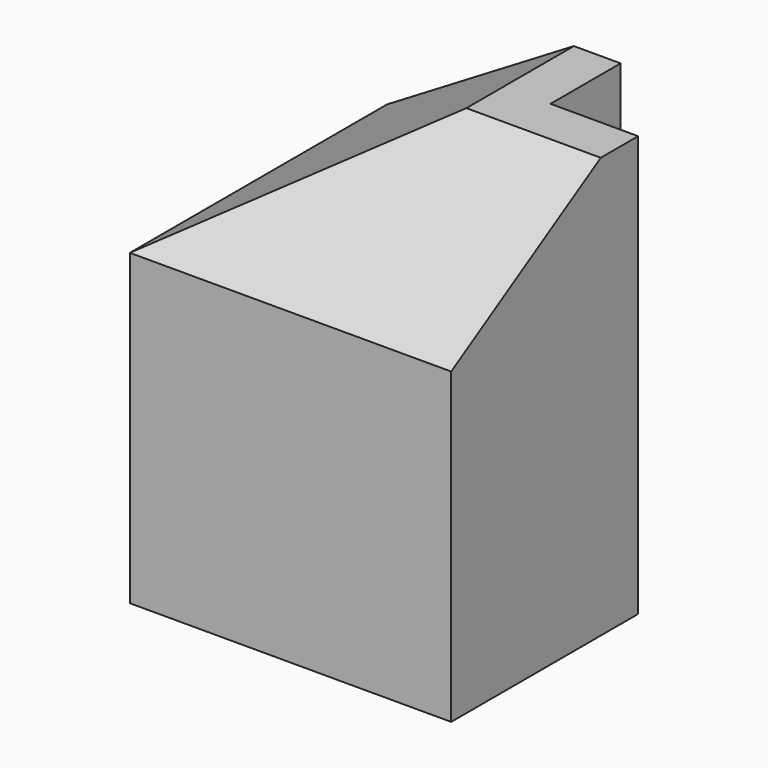
from build123d import *

# Parameters (mm, degrees)
PAD014_DEPTH    = 28.8
POCKET011_DEPTH = 24
POCKET012_DEPTH = 24
SKETCH112_W     = 2
SKETCH112_H     = 16
POCKET028_DEPTH = 30
PAD141_DEPTH    = 22
PAD142_DEPTH    = 24
POCKET056_DEPTH = 24
POCKET057_DEPTH = 23
SKETCH194_W     = 16
SKETCH194_H     = 2
POCKET076_DEPTH = 30


with BuildPart() as part:
    # Sketch025 (on Face52 of Binder010) → Pad014 (new body)
    with BuildSketch(Plane.XY.offset(-28.8)):
        Polygon((0, 0), (0, 8), (-16, 8), (-16, -16), (8, -16), (8, 0), align=None)
    extrude(amount=PAD014_DEPTH)

    # Sketch026 (on Face5 of Pad014) → Pocket011 (cut)
    with BuildSketch(Plane.YZ.offset(8)):
        Polygon((-16, -9.6), (0, 0), (-16, 0), align=None)
    extrude(amount=-POCKET011_DEPTH, mode=Mode.SUBTRACT)

    # Sketch027 (on Face3 of Pocket011) → Pocket012 (cut)
    with BuildSketch(Plane(origin=(0, 8, 0), x_dir=(-1, 0, 0), z_dir=(0, 1, 0))):
        Polygon((16, -9.6), (0, 0), (16, 0), align=None)
    extrude(amount=-POCKET012_DEPTH, mode=Mode.SUBTRACT)

    # Sketch112 (on Face4 of Pocket012) → Pocket028 (cut)
    with BuildSketch(Plane(origin=(0, 0, -28.8), x_dir=(1, 0, 0), z_dir=(0, 0, -1))):
        with Locations((7, 8)):
            Rectangle(SKETCH112_W, SKETCH112_H)
    extrude(amount=-POCKET028_DEPTH, mode=Mode.SUBTRACT)

    # Sketch137 (on Face7 of Pocket028) → Pad141 (join)
    with BuildSketch(Plane.YZ.offset(6)):
        Polygon((0, 0), (-3.2, 0), (-16, -7.68), (-16, -10.88), (-3.2, -3.2), (0, -3.2), align=None)
    extrude(amount=-PAD141_DEPTH)

    # Sketch167 → Pad142 (join)
    with BuildSketch(Plane(origin=(0, 8, 0), x_dir=(-1, 0, 0), z_dir=(0, 1, 0))):
        Polygon((0, 0), (0, -3.2), (3.2, -3.2), (16, -10.88), (16, -7.68), (3.2, 0), align=None)
    extrude(amount=-PAD142_DEPTH)

    # Sketch170 (on Face9 of Pad142) → Pocket056 (cut)
    with BuildSketch(Plane(origin=(0, 8, 0), x_dir=(-1, 0, 0), z_dir=(0, 1, 0))):
        Polygon((3.2, 0), (16, -7.68), (16, 0), align=None)
    extrude(amount=-POCKET056_DEPTH, mode=Mode.SUBTRACT)

    # Sketch171 (on Face3 of Pocket056) → Pocket057 (cut)
    with BuildSketch(Plane.YZ.offset(6)):
        Polygon((-3.2, 0), (-16, -7.68), (-16, 0), align=None)
    extrude(amount=-POCKET057_DEPTH, mode=Mode.SUBTRACT)

    # Sketch194 (on Face1 of Pocket057) → Pocket076 (cut)
    with BuildSketch(Plane(origin=(0, 0, -28.8), x_dir=(1, 0, 0), z_dir=(0, 0, -1))):
        with Locations((-8, -7)):
            Rectangle(SKETCH194_W, SKETCH194_H)
    extrude(amount=-POCKET076_DEPTH, mode=Mode.SUBTRACT)


solid = part.part
